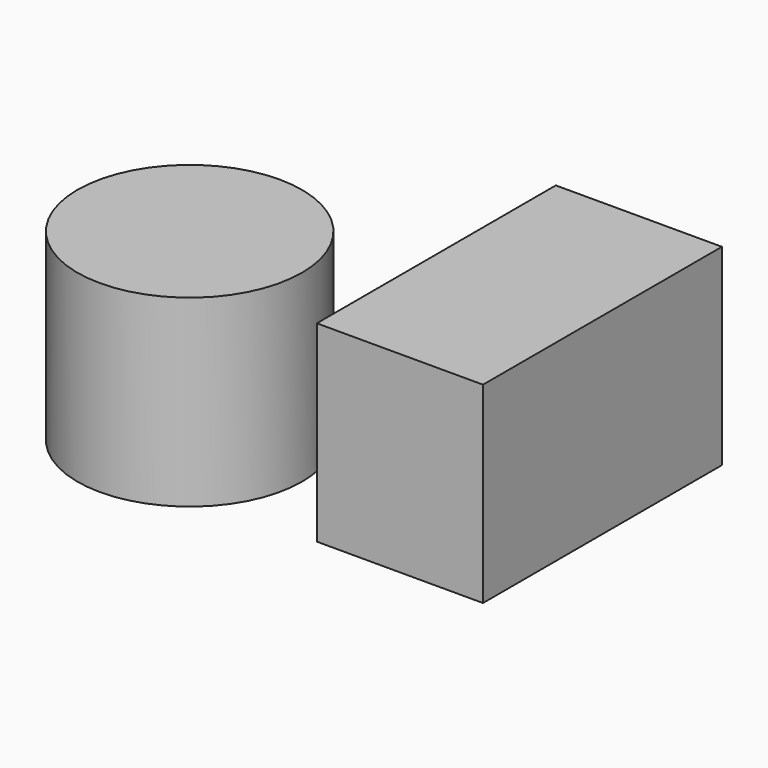
from build123d import *

# Parameters (mm, degrees)
F0_R     = 31.008692
F1_DEPTH = 50.8
F2_W     = 45.875152
F2_H     = 82.471676
F3_DEPTH = 53.086


with BuildPart() as f1:
    # F0 (on Top) → F1 (new body)
    with BuildSketch(Plane.XY):
        with Locations((-28.082786, -21.505017)):
            Circle(F0_R)
    extrude(amount=F1_DEPTH)


with BuildPart() as f3:
    # F2 (on Top) → F3 (new body)
    with BuildSketch(Plane.XY):
        with Locations((45.852405, -0.129178)):
            Rectangle(F2_W, F2_H)
    extrude(amount=F3_DEPTH)


solid = Compound([f1.part, f3.part])
